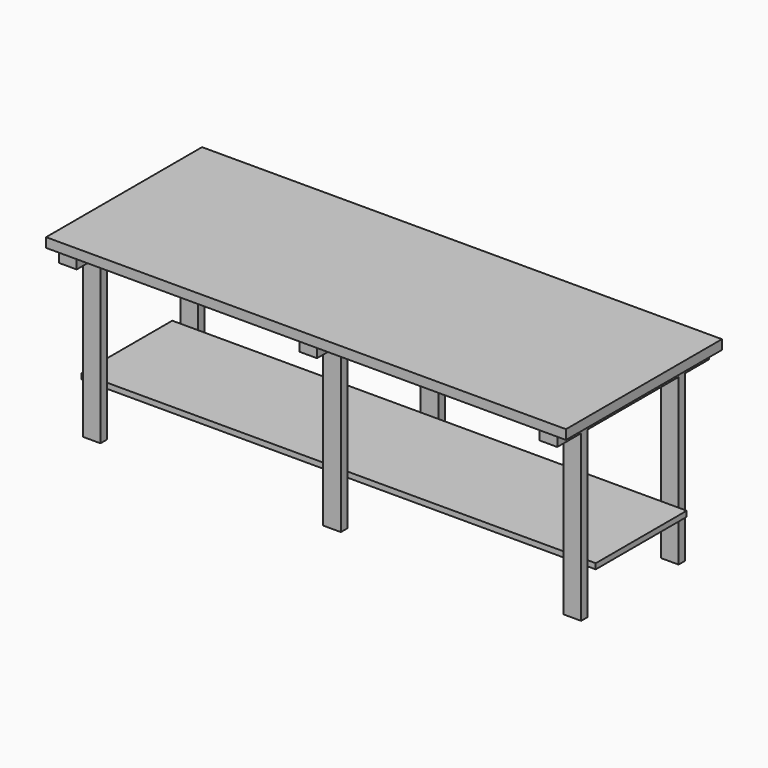
from build123d import *

# Parameters (mm, degrees)
F0_W     = 2438.4
F0_H     = 914.4
F0_W_2   = 82.55
F0_H_2   = 139.7
F0_H_3   = 38.1
F0_H_4   = 533.4
F1_DEPTH = 44.45
F2_DEPTH = 50.8
F3_DEPTH = 825.5
F5_W     = 2171.7
F5_H     = 533.4
F5_W_2   = 82.55
F5_W_3   = 38.1
F6_DEPTH = 25.4


with BuildPart() as f1:
    # F0 (on Top) → F1 (new body)
    with BuildSketch(Plane.XY):
        with Locations((1219.2, 457.2)):
            Rectangle(F0_W, F0_H)
        Polygon((50.8, 762), (50.8, 901.7), (133.35, 901.7), (133.35, 762), (133.35, 723.9), (133.35, 190.5), (133.35, 152.4), (133.35, 12.7), (50.8, 12.7), (50.8, 152.4), (50.8, 190.5), (50.8, 723.9), align=None, mode=Mode.SUBTRACT)
        Polygon((1177.925, 762), (1177.925, 901.7), (1260.475, 901.7), (1260.475, 762), (1260.475, 723.9), (1260.475, 190.5), (1260.475, 152.4), (1260.475, 12.7), (1177.925, 12.7), (1177.925, 152.4), (1177.925, 190.5), (1177.925, 723.9), align=None, mode=Mode.SUBTRACT)
        Polygon((2305.05, 901.7), (2387.6, 901.7), (2387.6, 762), (2387.6, 723.9), (2387.6, 190.5), (2387.6, 152.4), (2387.6, 12.7), (2305.05, 12.7), (2305.05, 152.4), (2305.05, 190.5), (2305.05, 723.9), (2305.05, 762), align=None, mode=Mode.SUBTRACT)
        with Locations((92.075, 831.85)):
            Rectangle(F0_W_2, F0_H_2)
        with Locations((92.075, 742.95)):
            Rectangle(F0_W_2, F0_H_3)
        with Locations((92.075, 457.2)):
            Rectangle(F0_W_2, F0_H_4)
        with Locations((92.075, 171.45)):
            Rectangle(F0_W_2, F0_H_3)
        with Locations((92.075, 82.55)):
            Rectangle(F0_W_2, F0_H_2)
        with Locations((1219.2, 82.55)):
            Rectangle(F0_W_2, F0_H_2)
        with Locations((1219.2, 171.45)):
            Rectangle(F0_W_2, F0_H_3)
        with Locations((1219.2, 457.2)):
            Rectangle(F0_W_2, F0_H_4)
        with Locations((1219.2, 742.95)):
            Rectangle(F0_W_2, F0_H_3)
        with Locations((1219.2, 831.85)):
            Rectangle(F0_W_2, F0_H_2)
        with Locations((2346.325, 831.85)):
            Rectangle(F0_W_2, F0_H_2)
        with Locations((2346.325, 742.95)):
            Rectangle(F0_W_2, F0_H_3)
        with Locations((2346.325, 457.2)):
            Rectangle(F0_W_2, F0_H_4)
        with Locations((2346.325, 171.45)):
            Rectangle(F0_W_2, F0_H_3)
        with Locations((2346.325, 82.55)):
            Rectangle(F0_W_2, F0_H_2)
    extrude(amount=F1_DEPTH)

    # F0 (on Top) → F2 (join)
    with BuildSketch(Plane.XY):
        with Locations((92.075, 82.55)):
            Rectangle(F0_W_2, F0_H_2)
        with Locations((92.075, 171.45)):
            Rectangle(F0_W_2, F0_H_3)
        with Locations((92.075, 457.2)):
            Rectangle(F0_W_2, F0_H_4)
        with Locations((92.075, 742.95)):
            Rectangle(F0_W_2, F0_H_3)
        with Locations((92.075, 831.85)):
            Rectangle(F0_W_2, F0_H_2)
        with Locations((1219.2, 82.55)):
            Rectangle(F0_W_2, F0_H_2)
        with Locations((1219.2, 457.2)):
            Rectangle(F0_W_2, F0_H_4)
        with Locations((1219.2, 171.45)):
            Rectangle(F0_W_2, F0_H_3)
        with Locations((1219.2, 742.95)):
            Rectangle(F0_W_2, F0_H_3)
        with Locations((1219.2, 831.85)):
            Rectangle(F0_W_2, F0_H_2)
        with Locations((2346.325, 82.55)):
            Rectangle(F0_W_2, F0_H_2)
        with Locations((2346.325, 171.45)):
            Rectangle(F0_W_2, F0_H_3)
        with Locations((2346.325, 457.2)):
            Rectangle(F0_W_2, F0_H_4)
        with Locations((2346.325, 742.95)):
            Rectangle(F0_W_2, F0_H_3)
        with Locations((2346.325, 831.85)):
            Rectangle(F0_W_2, F0_H_2)
    extrude(amount=-F2_DEPTH)


with BuildPart() as f3:
    # F0 (on Top) → F3 (new body)
    with BuildSketch(Plane.XY):
        with Locations((92.075, 171.45)):
            Rectangle(F0_W_2, F0_H_3)
    extrude(amount=-F3_DEPTH)



with BuildPart() as f3b:
    # F0 (on Top) → F3, piece 2 (new body)
    with BuildSketch(Plane.XY):
        with Locations((92.075, 742.95)):
            Rectangle(F0_W_2, F0_H_3)
    extrude(amount=-F3_DEPTH)


with BuildPart() as f3c:
    # F0 (on Top) → F3, piece 3 (new body)
    with BuildSketch(Plane.XY):
        with Locations((1219.2, 171.45)):
            Rectangle(F0_W_2, F0_H_3)
    extrude(amount=-F3_DEPTH)


with BuildPart() as f3d:
    # F0 (on Top) → F3, piece 4 (new body)
    with BuildSketch(Plane.XY):
        with Locations((1219.2, 742.95)):
            Rectangle(F0_W_2, F0_H_3)
    extrude(amount=-F3_DEPTH)


with BuildPart() as f3e:
    # F0 (on Top) → F3, piece 5 (new body)
    with BuildSketch(Plane.XY):
        with Locations((2346.325, 171.45)):
            Rectangle(F0_W_2, F0_H_3)
    extrude(amount=-F3_DEPTH)


with BuildPart() as f3f:
    # F0 (on Top) → F3, piece 6 (new body)
    with BuildSketch(Plane.XY):
        with Locations((2346.325, 742.95)):
            Rectangle(F0_W_2, F0_H_3)
    extrude(amount=-F3_DEPTH)


with BuildPart() as f3_1:
    add(f3.part)

    add(f3b.part)  # F6 merges F3b

    add(f3c.part)  # F6 merges F3c

    add(f3d.part)  # F6 merges F3d

    add(f3e.part)  # F6 merges F3e

    add(f3f.part)  # F6 merges F3f
    # F5 (on offset) → F6 (join)
    with BuildSketch(Plane.XY.offset(-590.55)):
        with Locations((1219.2, 457.2)):
            Rectangle(F5_W, F5_H)
        with Locations((92.075, 457.2)):
            Rectangle(F5_W_2, F5_H)
        with Locations((31.75, 457.2)):
            Rectangle(F5_W_3, F5_H)
        with Locations((2346.325, 457.2)):
            Rectangle(F5_W_2, F5_H)
        with Locations((2406.65, 457.2)):
            Rectangle(F5_W_3, F5_H)
    extrude(amount=-F6_DEPTH)


solid = Compound([f1.part, f3_1.part])
